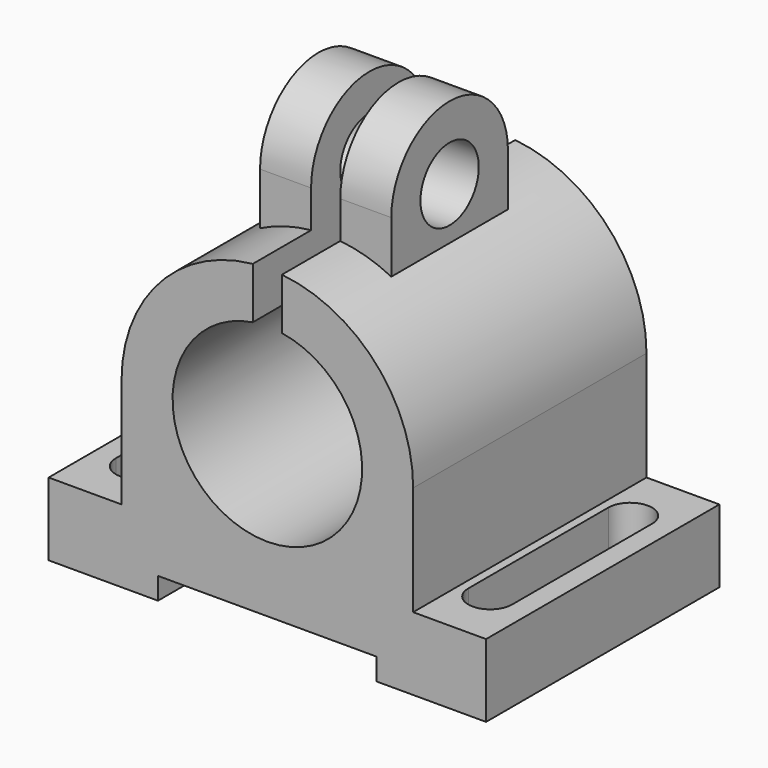
from build123d import *

# Parameters (mm, degrees)
SKETCH_W        = 60
SKETCH_H        = 40
PAD_DEPTH       = 10
PAD001_DEPTH    = 20
PAD002_DEPTH    = 9
SKETCH004_R     = 5
POCKET_DEPTH    = 39.001
POCKET001_DEPTH = 40.001
SKETCH005_W     = 30
SKETCH005_H     = 3
POCKET002_DEPTH = 40.001
POCKET003_DEPTH = 197.61763


with BuildPart() as part:
    # Sketch → Pad (new body)
    with BuildSketch(Plane.XY):
        Rectangle(SKETCH_W, SKETCH_H)
    extrude(amount=PAD_DEPTH)

    # Sketch001 → Pad001 (join, symmetric)
    with BuildSketch(Plane.XZ):
        with BuildLine():
            Line((-20, 10), (-20, 25))
            ThreePointArc((20, 25), (0, 45), (-20, 25))
            Line((20, 25), (20, 10))
            Line((-20, 10), (20, 10))
        make_face()
    extrude(amount=PAD001_DEPTH, both=True)

    # Sketch002 → Pad002 (join, symmetric)
    with BuildSketch(Plane.YZ):
        with BuildLine():
            Line((-10, 40.09), (-10, 50))
            ThreePointArc((10, 50), (0, 60), (-10, 50))
            Line((10, 50), (10, 40.09))
            Line((-10, 40.09), (10, 40.09))
        make_face()
    extrude(amount=PAD002_DEPTH, both=True)

    # Sketch004 (on Face13 of Pad002) → Pocket (cut, through all)
    with BuildSketch(Plane(origin=(-9, 0, 0), x_dir=(0, -1, 0), z_dir=(-1, 0, 0))):
        with Locations((0, 50)):
            Circle(SKETCH004_R)
    extrude(amount=-POCKET_DEPTH, mode=Mode.SUBTRACT)

    # Sketch003 (on Face12 of Pad001) → Pocket001 (cut, through all)
    with BuildSketch(Plane.XZ.offset(20)):
        with BuildLine():
            ThreePointArc((-2, 37.845233), (0, 12), (2, 37.845233))
            Line((2, 60), (2, 37.845233))
            Line((-2, 60), (2, 60))
            Line((-2, 37.845233), (-2, 60))
        make_face()
    extrude(amount=-POCKET001_DEPTH, mode=Mode.SUBTRACT)

    # Sketch005 (on Face8 of Pocket001) → Pocket002 (cut, through all)
    with BuildSketch(Plane.XZ.offset(20)):
        with Locations((0, 1.5)):
            Rectangle(SKETCH005_W, SKETCH005_H)
    extrude(amount=-POCKET002_DEPTH, mode=Mode.SUBTRACT)

    # Sketch006 (on Face10 of Pocket002) → Pocket003 (cut, through all)
    with BuildSketch(Plane.XY.offset(10)):
        with BuildLine():
            ThreePointArc((-21.166947, 12), (-24.166947, 15), (-27.166947, 12))
            Line((-27.166947, 12), (-27.166947, -12))
            ThreePointArc((-27.166947, -12), (-24.166947, -15), (-21.166947, -12))
            Line((-21.166947, 12), (-21.166947, -12))
        make_face()
    pocket003 = extrude(amount=-POCKET003_DEPTH, mode=Mode.SUBTRACT)

    # Mirrored: Pocket003 across Sketch006 V_Axis
    add(pocket003.mirror(Plane(origin=(0, 0, 10), x_dir=(0, 0, 1), z_dir=(1, 0, 0))), mode=Mode.SUBTRACT)


solid = part.part
